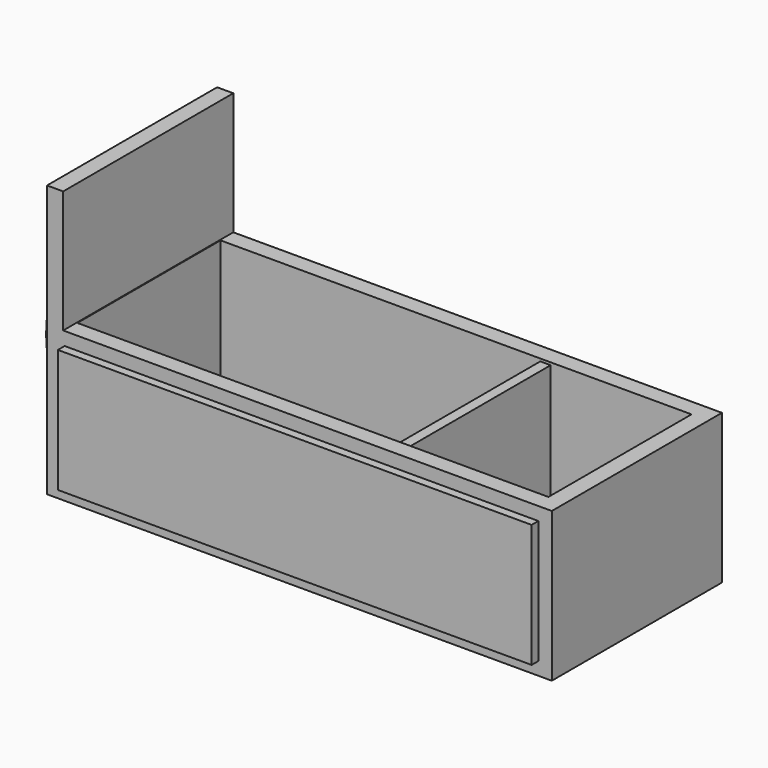
from build123d import *

# Parameters (mm, degrees)
F0_W      = 151.853732
F0_H      = 63.969113
F1_DEPTH  = 44.958
F2_T      = -5.08
F3_W      = 4.860878
F3_H      = 63.969113
F4_DEPTH  = 36.83
F5_R      = 28.577313
F6_DEPTH  = 2.54
F7_W      = 142.505951
F7_H      = 37.087826
F8_DEPTH  = 2.54
F9_W      = 3.11096
F9_H      = 53.809113
F10_DEPTH = 39.116


with BuildPart() as f1:
    # F0 (on Top) → F1 (new body)
    with BuildSketch(Plane.XY):
        with Locations((-0.097219, 0.583305)):
            Rectangle(F0_W, F0_H)
    extrude(amount=F1_DEPTH)

    # F2
    f2_openings = [f1.faces().sort_by_distance(p)[0] for p in [
        (-0.097219, 0.583306, 44.958),
    ]]
    offset(amount=F2_T, openings=f2_openings)

    # F3 (on face) → F4 (join)
    with BuildSketch(Plane.XY.offset(44.958)):
        with Locations((-73.593646, 0.583305)):
            Rectangle(F3_W, F3_H)
    extrude(amount=F4_DEPTH)

    # F5 (on face) → F6 (join)
    with BuildSketch(Plane(origin=(-76.024085, 0, 0), x_dir=(0, -1, 0), z_dir=(-1, 0, 0))):
        with Locations((0, 40.390089)):
            Circle(F5_R)
    extrude(amount=F6_DEPTH)

    # F7 (on face) → F8 (join)
    with BuildSketch(Plane.XZ.offset(31.401251)):
        with Locations((0.531253, 22.446518)):
            Rectangle(F7_W, F7_H)
    extrude(amount=F8_DEPTH)

    # F9 (on face) → F10 (join)
    with BuildSketch(Plane.XY.offset(5.08)):
        with Locations((26.816599, 0.583305)):
            Rectangle(F9_W, F9_H)
    extrude(amount=F10_DEPTH)


solid = f1.part
